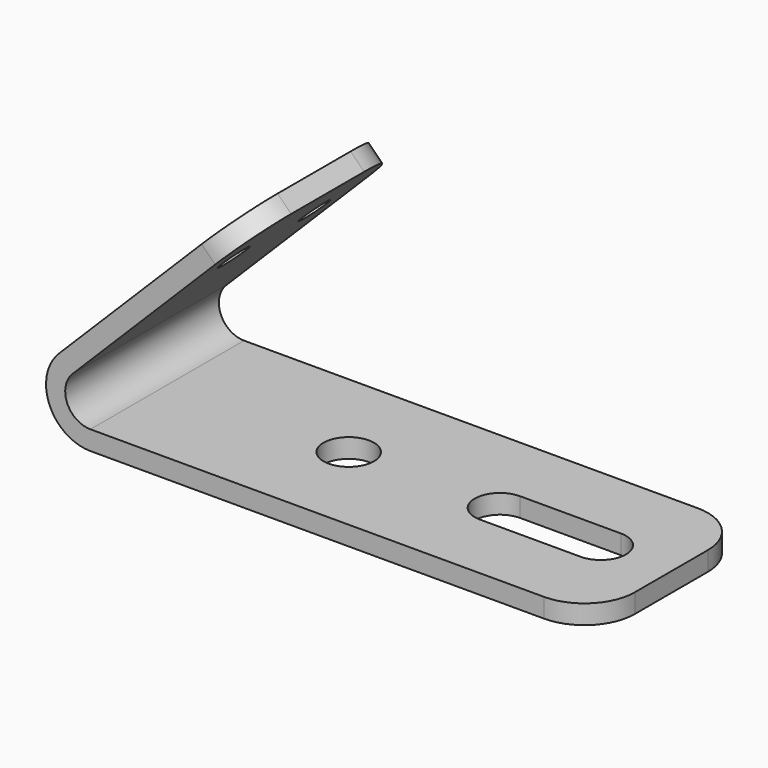
from build123d import *

# Parameters (mm, degrees)
F1_DEPTH = 9.525
F2_R     = 5
F3_R     = 1.5
F4_DEPTH = 1.9
F5_R     = 2.5
F6_DEPTH = 1.901


with BuildPart() as f1:
    # F0 (on Front) → F1 (new body, symmetric)
    with BuildSketch(Plane.XZ):
        with BuildLine():
            Line((26.532442, 23.845436), (25.188939, 25.188939))
            Line((25.188939, 25.188939), (7.51127, 7.51127))
            ThreePointArc((7.51127, 7.51127), (6.55747, 2.716193), (10.62254, 0))
            Line((10.62254, 0), (60.62254, 0))
            Line((60.62254, 0), (60.62254, 1.9))
            Line((60.62254, 1.9), (10.62254, 1.9))
            ThreePointArc((10.62254, 1.9), (8.312841, 3.443291), (8.854773, 6.167767))
            Line((8.854773, 6.167767), (26.532442, 23.845436))
        make_face()
    extrude(amount=F1_DEPTH, both=True)

    # F2
    f2_edges = [f1.edges().sort_by_distance(p)[0] for p in [
        (25.860691, -9.525, 24.517188),
        (25.860691, 9.525, 24.517188),
        (60.62254, 9.525, 0.95),
        (60.62254, -9.525, 0.95),
    ]]
    fillet(f2_edges, radius=F2_R)

    # F3 (on face) → F4 (cut, through all)
    with BuildSketch(Plane(origin=(0, 0, 0), x_dir=(0, -1, 0), z_dir=(-0.707107, 0, 0.707107))):
        with Locations((-5, 28.12254)):
            Circle(F3_R)
        with Locations((5, 28.12254)):
            Circle(F3_R)
    extrude(amount=-F4_DEPTH, mode=Mode.SUBTRACT)

    # F5 (on face) → F6 (cut, through all)
    with BuildSketch(Plane.XY.offset(1.9)):
        with Locations((28.62254, 0)):
            Circle(F5_R)
        with BuildLine():
            ThreePointArc((43.62254, 2.5), (41.12254, 0), (43.62254, -2.5))
            Line((43.62254, -2.5), (53.62254, -2.5))
            ThreePointArc((53.62254, -2.5), (56.12254, 0), (53.62254, 2.5))
            Line((53.62254, 2.5), (43.62254, 2.5))
        make_face()
    extrude(amount=-F6_DEPTH, mode=Mode.SUBTRACT)


solid = f1.part
